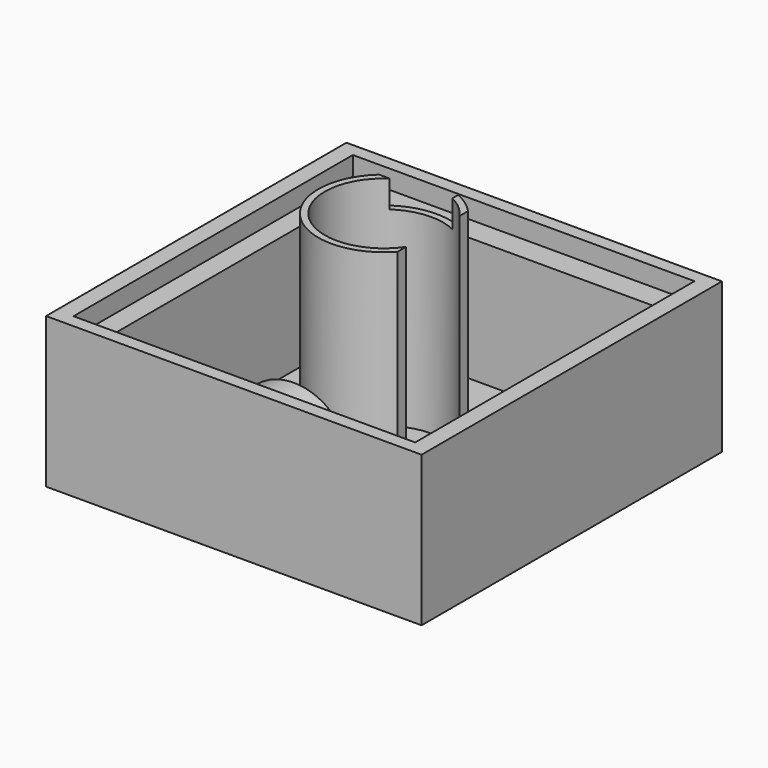
from build123d import *

# Parameters (mm, degrees)
SKETCH_W        = 100
SKETCH_H        = 100
PAD_DEPTH       = 40
SKETCH001_W     = 80
SKETCH001_H     = 80
POCKET_DEPTH    = 38
SKETCH002_W     = 91
SKETCH002_H     = 93
POCKET001_DEPTH = 5
SKETCH003_R     = 15.5
PAD001_DEPTH    = 10
SKETCH004_R     = 12.5
POCKET002_DEPTH = 5
SKETCH005_R     = 2
POCKET003_DEPTH = 5
SKETCH006_R     = 2.5
POCKET004_DEPTH = 5
SKETCH007_R     = 17.5
PAD002_DEPTH    = 60
SKETCH008_R     = 15.75
POCKET005_DEPTH = 60.001
SKETCH009_W     = 60
SKETCH009_H     = 25
POCKET006_DEPTH = 5
SKETCH010_W     = 18.791137
SKETCH010_H     = 7.238009
POCKET007_DEPTH = 5


with BuildPart() as body:
    # Sketch → Pad (new body)
    with BuildSketch(Plane.XY):
        Rectangle(SKETCH_W, SKETCH_H)
    extrude(amount=PAD_DEPTH)

    # Sketch001 (on Face6 of Pad) → Pocket (cut)
    with BuildSketch(Plane.XY.offset(40)):
        Rectangle(SKETCH001_W, SKETCH001_H)
    extrude(amount=-POCKET_DEPTH, mode=Mode.SUBTRACT)

    # Sketch002 (on Face5 of Pocket) → Pocket001 (cut)
    with BuildSketch(Plane.XY.offset(40)):
        Rectangle(SKETCH002_W, SKETCH002_H)
    extrude(amount=-POCKET001_DEPTH, mode=Mode.SUBTRACT)

    # Sketch003 (on Face12 of Pocket001) → Pad001 (join)
    with BuildSketch(Plane(origin=(0, -40, 0), x_dir=(-1, 0, 0), z_dir=(0, 1, 0))):
        with Locations((0, 17)):
            Circle(SKETCH003_R)
    extrude(amount=PAD001_DEPTH)

    # Sketch004 (on Face19 of Pad001) → Pocket002 (cut)
    with BuildSketch(Plane(origin=(0, -30, 0), x_dir=(-1, 0, 0), z_dir=(0, 1, 0))):
        with Locations((0, 17)):
            Circle(SKETCH004_R)
    extrude(amount=-POCKET002_DEPTH, mode=Mode.SUBTRACT)

    # Sketch005 (on DatumPlane) → Pocket003 (cut)
    with BuildSketch(Plane(origin=(16.0239037276, -33, 11.567913256), x_dir=(0.1096696952, 0, -0.993968087), z_dir=(0.993968087, 0, 0.1096696952))):
        with Locations((-5.215971, 0)):
            Circle(SKETCH005_R)
    extrude(amount=-POCKET003_DEPTH, mode=Mode.SUBTRACT)

    # Sketch006 (on Face16 of Pocket003) → Pocket004 (cut)
    with BuildSketch(Plane.XY.offset(2)):
        with Locations((35, -35)):
            Circle(SKETCH006_R)
    extrude(amount=-POCKET004_DEPTH, mode=Mode.SUBTRACT)


with BuildPart() as body001:
    # Sketch007 → Pad002 (new body)
    with BuildSketch(Plane.XY):
        Circle(SKETCH007_R)
    extrude(amount=PAD002_DEPTH)

    # Sketch008 (on Face2 of Pad002) → Pocket005 (cut, through all)
    with BuildSketch(Plane(origin=(0, 0, 0), x_dir=(1, 0, 0), z_dir=(0, 0, -1))):
        Circle(SKETCH008_R)
    extrude(amount=-POCKET005_DEPTH, mode=Mode.SUBTRACT)

    # Sketch009 (on DatumPlane) → Pocket006 (cut)
    with BuildSketch(Plane(origin=(18, 0, 30), x_dir=(0, 0, -1), z_dir=(1, 0, 0))):
        with Locations((0, -0.1393321247)):
            Rectangle(SKETCH009_W, SKETCH009_H)
    extrude(amount=-POCKET006_DEPTH, mode=Mode.SUBTRACT)

    # Sketch010 (on DatumPlane) → Pocket007 (cut)
    with BuildSketch(Plane(origin=(-4.8649371499, 18, 30), x_dir=(-1, 0, 0), z_dir=(0, 1, 0))):
        with Locations((-2.3194305, 26.3809955)):
            Rectangle(SKETCH010_W, SKETCH010_H)
    extrude(amount=-POCKET007_DEPTH, mode=Mode.SUBTRACT)


solid = Compound([body.part, body001.part])
